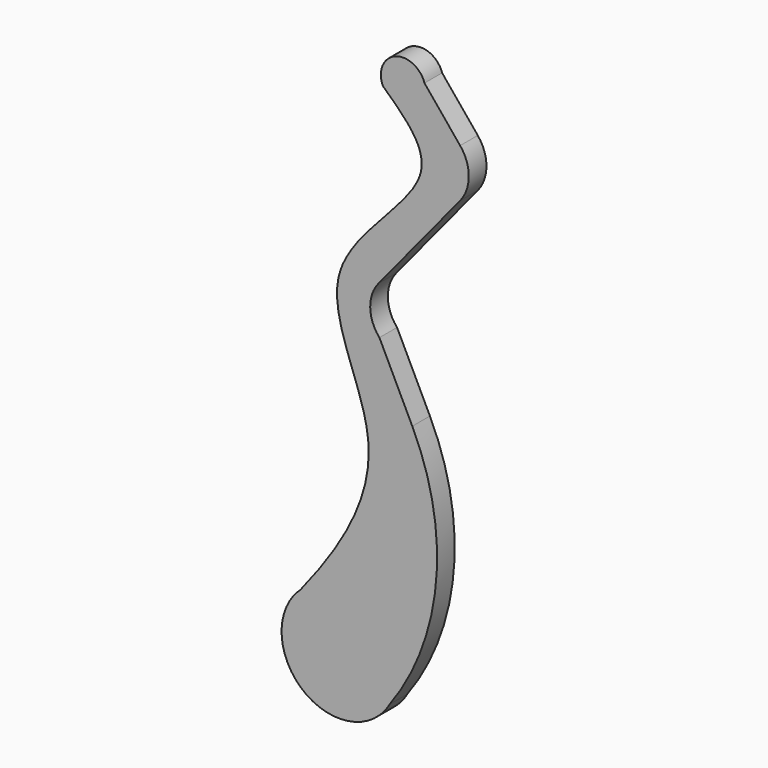
from build123d import *

# Parameters (mm, degrees)
F1_DEPTH = 2


with BuildPart() as f1:
    # F0 (on Front) → F1 (new body)
    with BuildSketch(Plane.XZ):
        with BuildLine():
            add(Edge.make_bspline(
                [(-4.5109990913, 2.6932237879), (-4.186182771, 3.0859454597), (-3.8668291746, 3.4779087892), (-3.5542004754, 3.86913765)],
                knots=[0, 0, 0, 0, 0.0225414722, 0.0225414722, 0.0225414722, 0.0225414722], degree=3))
            ThreePointArc((-4.5109990913, 2.6932237879), (-3.2737331278, -4.1091651928), (3.6331258428, -3.795123685))
            ThreePointArc((3.6331258428, -3.795123685), (4.0984846738, -3.2232032554), (4.5445921749, -2.6361428523))
            ThreePointArc((4.5445921749, -2.6361428523), (5.0734116529, -1.3649400623), (5.2538145355, 0))
            ThreePointArc((5.2538145355, 0), (2.1129904228, 4.8101807291), (-3.5542004754, 3.86913765))
        make_face()
        with BuildLine():
            ThreePointArc((-3.5542004754, 3.86913765), (-4.0752367251, 3.3158728577), (-4.5109990913, 2.6932237879))
            add(Edge.make_bspline(
                [(-4.5109990913, 2.6932237879), (-4.186182771, 3.0859454597), (-3.8668291746, 3.4779087892), (-3.5542004754, 3.86913765)],
                knots=[0, 0, 0, 0, 0.0225414722, 0.0225414722, 0.0225414722, 0.0225414722], degree=3))
        make_face()
        with BuildLine():
            ThreePointArc((4.5445921749, -2.6361428523), (4.0984846738, -3.2232032554), (3.6331258428, -3.795123685))
            ThreePointArc((3.6331258428, -3.795123685), (4.1297187721, -3.2477669308), (4.5445921749, -2.6361428523))
        make_face()
        with BuildLine():
            add(Edge.make_bspline(
                [(-3.5542004754, 3.86913765), (0.2330886973, 8.6086156073), (5.6832580788, 17.6229814914), (-4.4035858893, 30.6504335807), (10.6108386332, 40.3534022106), (5.9464135427, 44.6679200089), (3.9415542796, 46.5130676717)],
                knots=[0.0225414722, 0.0225414722, 0.0225414722, 0.0225414722, 0.2956164456, 0.5540101207, 0.8122984675, 1, 1, 1, 1], degree=3))
            ThreePointArc((-3.5542004754, 3.86913765), (2.1129904228, 4.8101807291), (5.2538145355, 0))
            ThreePointArc((5.2538145355, 0), (5.0734116529, -1.3649400623), (4.5445921749, -2.6361428523))
            ThreePointArc((4.5445921749, -2.6361428523), (8.7588690962, 8.5133425197), (6.5985024764, 20.2352864753))
            Line((6.5985024764, 20.2352864753), (3.618778496, 26.3401578895))
            ThreePointArc((3.618778496, 26.3401578895), (2.7826983, 28.4723352188), (3.5328938068, 30.6362245319))
            Line((3.5328938068, 30.6362245319), (10.9388902111, 39.6566173219))
            ThreePointArc((10.9388902111, 39.6566173219), (11.7245966278, 41.8517973865), (10.9388902111, 44.0469774511))
            Line((10.9388902111, 44.0469774511), (7.7052004929, 47.9855631359))
            ThreePointArc((7.7052004929, 47.9855631359), (5.0382167529, 49.2561581524), (3.9415542796, 46.5130676717))
        make_face()
    extrude(amount=F1_DEPTH)


solid = f1.part
